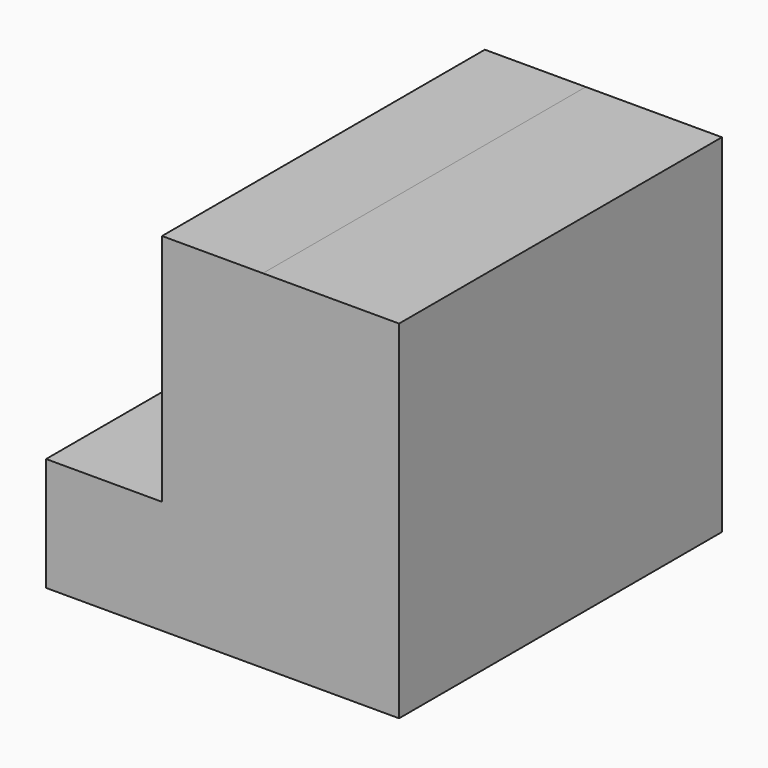
from build123d import *

# Parameters (mm, degrees)
F1_DEPTH = 50.8
F3_DEPTH = 28.575003
F4_W     = 101.6
F4_H     = 58.923625
F4_R     = 12.7
F5_DEPTH = 25.4


with BuildPart() as f1:
    # F0 (on Front) → F1 (new body, symmetric)
    with BuildSketch(Plane.XZ):
        Polygon((17.145002, -15.174311), (17.145002, 43.749314), (-17.145002, 43.749314), (-17.145002, -15.174311), (-71.733102, -15.174311), (-71.733102, -43.749314), (-17.145002, -43.749314), (17.145002, -43.749314), align=None)
    extrude(amount=F1_DEPTH, both=True)

    # F2 (on face) → F3 (cut, through all)
    with BuildSketch(Plane.XY.offset(-15.174311)):
        with BuildLine():
            ThreePointArc((-37.474338, -8.679342), (-46.153679, 0), (-37.474338, 8.679342))
            Line((-37.474338, 8.679342), (-71.733102, 8.679342))
            Line((-71.733102, 8.679342), (-71.733102, -8.679342))
            Line((-71.733102, -8.679342), (-37.474338, -8.679342))
        make_face()
        with BuildLine():
            ThreePointArc((-37.474338, -8.679342), (-31.337117, -6.137221), (-28.794996, 0))
            ThreePointArc((-28.794996, 0), (-31.337117, 6.137221), (-37.474338, 8.679342))
            ThreePointArc((-37.474338, 8.679342), (-46.153679, 0), (-37.474338, -8.679342))
        make_face()
    extrude(amount=-F3_DEPTH, mode=Mode.SUBTRACT)

    # F4 (on face) → F5 (join)
    with BuildSketch(Plane(origin=(-17.145002, 0, 0), x_dir=(0, -1, 0), z_dir=(-1, 0, 0))):
        with Locations((0, 14.287501)):
            Rectangle(F4_W, F4_H)
        with Locations((0, 17.426297)):
            Circle(F4_R, mode=Mode.SUBTRACT)
    extrude(amount=F5_DEPTH)


solid = f1.part
